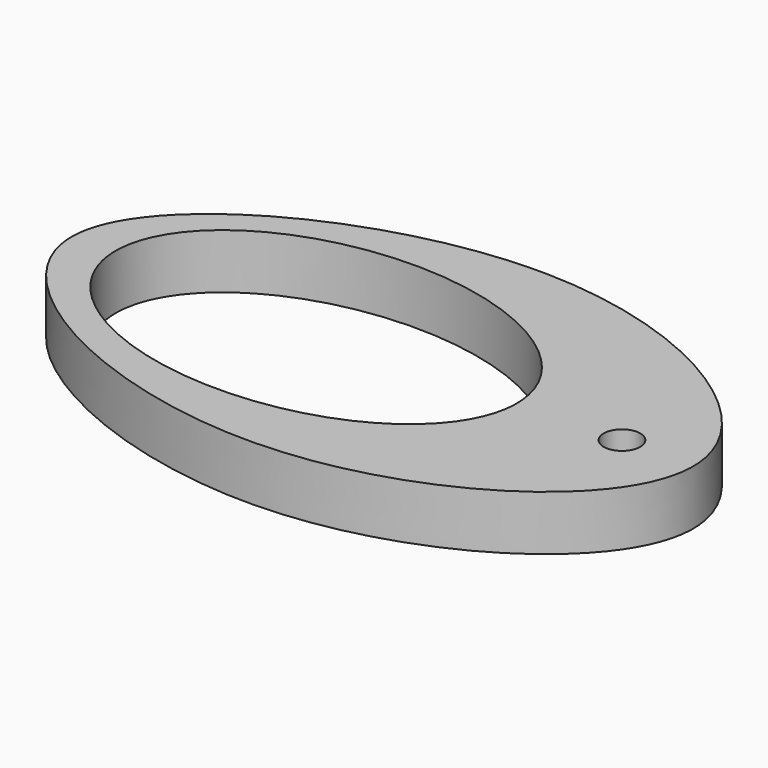
from build123d import *

# Parameters (mm, degrees)
F1_DEPTH = 15
F2_R     = 10
F3_DEPTH = 6
F5_DEPTH = 25
F6_R     = 5
F7_DEPTH = 25


with BuildPart() as f1:
    # F0 (on Top) → F1 (new body)
    with BuildSketch(Plane.XY):
        with BuildLine():
            add(Edge.make_bspline(
                [(0, 50), (41.5043112764, 49.2873405793), (118.4956887236, 0), (1.2890348152, -75.0318342246), (-136.6417069636, 0), (-43.3582930364, 50.7444936453), (0, 50)],
                knots=[0, 0, 0, 0, 0.244538284, 0.4890765681, 0.744538284, 1, 1, 1, 1], degree=3))
        make_face()
    extrude(amount=F1_DEPTH)

    # F2 (on face) → F3 (cut)
    with BuildSketch(Plane(origin=(0, 0, 0), x_dir=(1, 0, 0), z_dir=(0, 0, -1))):
        Circle(F2_R)
    extrude(amount=-F3_DEPTH, mode=Mode.SUBTRACT)

    # F4 (on face) → F5 (cut)
    with BuildSketch(Plane.XY.offset(15)):
        with BuildLine():
            add(Edge.make_bspline(
                [(32.3786302867, -1.382461373), (33.9102431422, 60.0862636997), (-50.0797322585, 31.4255932229), (-134.0697076593, 2.764922746), (-51.6113451141, -30.0431318498), (30.8470174311, -62.8511864457), (32.3786302867, -1.382461373)],
                knots=[0, 0, 0, 2.0943951024, 2.0943951024, 4.1887902048, 4.1887902048, 6.2831853072, 6.2831853072, 6.2831853072], degree=2, weights=[1, 0.5, 1, 0.5, 1, 0.5, 1]))
        make_face()
    extrude(amount=-F5_DEPTH, mode=Mode.SUBTRACT)

    # F6 (on face) → F7 (cut)
    with BuildSketch(Plane.XY.offset(15)):
        with Locations((60.5360114284, 0)):
            Circle(F6_R)
    extrude(amount=-F7_DEPTH, mode=Mode.SUBTRACT)


solid = f1.part
